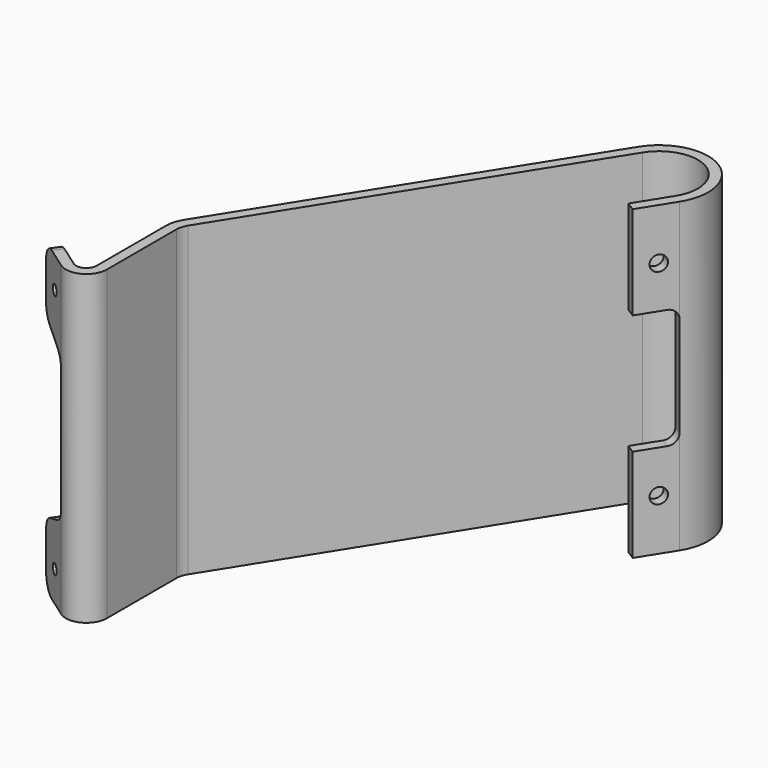
from build123d import *

# Parameters (mm, degrees)
F1_DEPTH = 95.25
F2_R     = 1.5875
F3_DEPTH = 3.175
F4_DEPTH = 3.175
F5_R     = 5.08
F6_R     = 2.38125
F7_DEPTH = 3.175
F9_DEPTH = 12.7


with BuildPart() as f1:
    # F0 (on Top) → F1 (new body)
    with BuildSketch(Plane.XY):
        with BuildLine():
            Line((-92.1331368885, -117.6278676055), (-93.9624351915, -120.2229191885))
            Line((-93.9624351915, -120.2229191885), (-83.2106191336, -127.802066747))
            ThreePointArc((-83.2106191336, -127.802066747), (-76.6288041341, -128.2490988663), (-73.2020225275, -122.611963581))
            Line((-73.2020225275, -122.611963581), (-73.2020225275, -95.6804940123))
            ThreePointArc((-73.2020225275, -95.6804940123), (-72.9539595945, -93.922977574), (-72.2291519666, -92.3027759964))
            Line((-72.2291519666, -92.3027759964), (-10.2165459343, 6.4176642302))
            ThreePointArc((-10.2165459343, 6.4176642302), (6.4176642302, 10.2165459343), (10.2165459343, -6.4176642302))
            Line((10.2165459343, -6.4176642302), (3.7988817041, -16.6342101646))
            Line((3.7988817041, -16.6342101646), (6.4874464236, -18.3230691725))
            Line((6.4874464236, -18.3230691725), (12.9051106539, -8.1065232382))
            ThreePointArc((12.9051106539, -8.1065232382), (8.1065232382, 12.9051106539), (-12.9051106539, 8.1065232382))
            Line((-12.9051106539, 8.1065232382), (-74.9177166862, -90.6139169884))
            ThreePointArc((-74.9177166862, -90.6139169884), (-76.004928128, -93.0442193549), (-76.3770225275, -95.6804940123))
            Line((-76.3770225275, -95.6804940123), (-76.3770225275, -122.611963581))
            ThreePointArc((-76.3770225275, -122.611963581), (-78.0904133308, -125.4305312236), (-81.3813208306, -125.207015164))
            Line((-81.3813208306, -125.207015164), (-92.1331368885, -117.6278676055))
        make_face()
    extrude(amount=F1_DEPTH)

    # F2 (on face) → F3 (cut, through all)
    with BuildSketch(Plane(origin=(-87.8063185468, -124.562475984, 0), x_dir=(0.8173390813, -0.5761569458, 0), z_dir=(-0.5761569458, -0.8173390813, 0))):
        with Locations((0, 85.725)):
            Circle(F2_R)
        with Locations((0, 9.525)):
            Circle(F2_R)
    extrude(amount=-F3_DEPTH, mode=Mode.SUBTRACT)

    # F2 (on face) → F4 (cut, through all)
    with BuildSketch(Plane(origin=(-87.8063185468, -124.562475984, 0), x_dir=(0.8173390813, -0.5761569458, 0), z_dir=(-0.5761569458, -0.8173390813, 0))):
        Polygon((5.6227574559, 69.85), (-7.5319005121, 75.2988377387), (-7.5319005121, 19.9511622613), (5.6227574559, 25.4), align=None)
    extrude(amount=-F4_DEPTH, mode=Mode.SUBTRACT)

    # F5
    f5_edges = [f1.edges().sort_by_distance(p)[0] for p in [
        (-93.047786, -118.925393, 95.25),
        (-93.047786, -118.925393, 75.298838),
        (-82.29597, -126.504541, 69.85),
        (-82.29597, -126.504541, 25.4),
        (-93.047786, -118.925393, 19.951162),
        (-93.047786, -118.925393, 0),
    ]]
    fillet(f5_edges, radius=F5_R)

    # F6 (on face) → F7 (cut, through all)
    with BuildSketch(Plane(origin=(12.9051106539, -8.1065232382, 0), x_dir=(0.531924097, 0.8467920377, 0), z_dir=(0.8467920377, -0.531924097, 0))):
        with Locations((-5.377555266, 79.375)):
            Circle(F6_R)
        with Locations((-5.377555266, 15.875)):
            Circle(F6_R)
    extrude(amount=-F7_DEPTH, mode=Mode.SUBTRACT)

    # F8 (on face) → F9 (cut)
    with BuildSketch(Plane(origin=(12.9051106539, -8.1065232382, 0), x_dir=(0.531924097, 0.8467920377, 0), z_dir=(0.8467920377, -0.531924097, 0))):
        with BuildLine():
            Line((-3.175, 66.2270688534), (-12.065, 66.2270688534))
            Line((-12.065, 66.2270688534), (-12.065, 29.0229311466))
            Line((-12.065, 29.0229311466), (-3.175, 29.0229311466))
            ThreePointArc((-3.175, 29.0229311466), (-0.9299359697, 29.9528671164), (0, 32.1979311466))
            Line((0, 32.1979311466), (0, 63.0520688534))
            ThreePointArc((0, 63.0520688534), (-0.9299359697, 65.2971328836), (-3.175, 66.2270688534))
        make_face()
    extrude(amount=-F9_DEPTH, mode=Mode.SUBTRACT)


solid = f1.part
